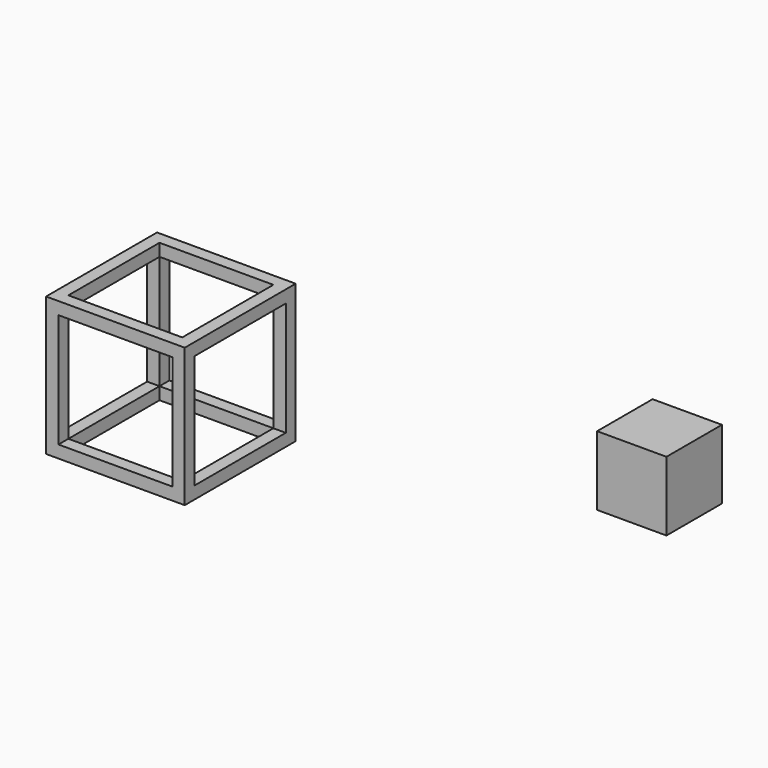
from build123d import *

# Parameters (mm, degrees)
F0_W     = 25.4
F0_H     = 25.4
F1_DEPTH = 25.4
F2_W     = 50.8
F2_H     = 50.8
F3_DEPTH = 50.8
F4_W     = 41.726601
F4_H     = 41.726601
F5_DEPTH = 56.134
F6_W     = 41.726612
F6_H     = 41.726612
F7_DEPTH = 116.586
F8_W     = 41.726612
F8_H     = 41.726612
F9_DEPTH = 113.792


with BuildPart() as f1:
    # F0 (on Top) → F1 (new body)
    with BuildSketch(Plane.XY):
        with Locations((-88.246899, -38.353436)):
            Rectangle(F0_W, F0_H)
    extrude(amount=F1_DEPTH)


with BuildPart() as f3:
    # F2 (on Top) → F3 (new body)
    with BuildSketch(Plane.XY):
        with Locations((-220.293728, -97.05841)):
            Rectangle(F2_W, F2_H)
    extrude(amount=F3_DEPTH)

    # F4 (on face) → F5 (cut)
    with BuildSketch(Plane.XY.offset(50.8)):
        with Locations((-220.293728, -97.058409)):
            Rectangle(F4_W, F4_H)
    extrude(amount=-F5_DEPTH, mode=Mode.SUBTRACT)

    # F6 (on face) → F7 (cut)
    with BuildSketch(Plane(origin=(0, -71.65841, 0), x_dir=(-1, 0, 0), z_dir=(0, 1, 0))):
        with Locations((220.293728, 25.4)):
            Rectangle(F6_W, F6_H)
    extrude(amount=-F7_DEPTH, mode=Mode.SUBTRACT)

    # F8 (on face) → F9 (cut)
    with BuildSketch(Plane.YZ.offset(-194.893728)):
        with Locations((-97.05841, 25.4)):
            Rectangle(F8_W, F8_H)
        with Locations((-97.05841, 25.4)):
            Rectangle(F8_W, F8_H)
    extrude(amount=-F9_DEPTH, mode=Mode.SUBTRACT)


solid = Compound([f1.part, f3.part])
